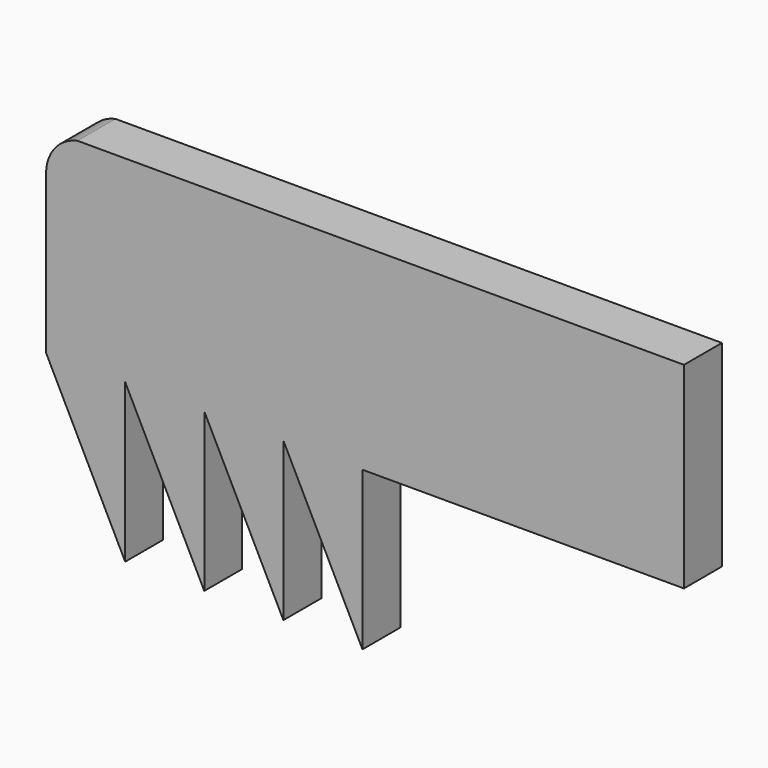
from build123d import *

# Parameters (mm, degrees)
F1_DEPTH = 3


with BuildPart() as f1:
    # F0 (on Front) → F1 (new body)
    with BuildSketch(Plane.XZ):
        with BuildLine():
            Line((15, 10), (20, 0))
            Line((20, 0), (20, 10))
            Line((20, 10), (40.322598, 10))
            Line((40.322598, 10), (40.322598, 22.445661))
            Line((40.322598, 22.445661), (20, 22.445661))
            Line((20, 22.445661), (1.981598, 22.445661))
            ThreePointArc((1.981598, 22.445661), (0.557578, 21.573848), (0, 20))
            Line((0, 20), (0, 10))
            Line((0, 10), (5, 0))
            Line((5, 0), (5, 10))
            Line((5, 10), (10, 0))
            Line((10, 0), (10, 10))
            Line((10, 10), (15, 0))
            Line((15, 0), (15, 10))
        make_face()
    extrude(amount=F1_DEPTH)


solid = f1.part
